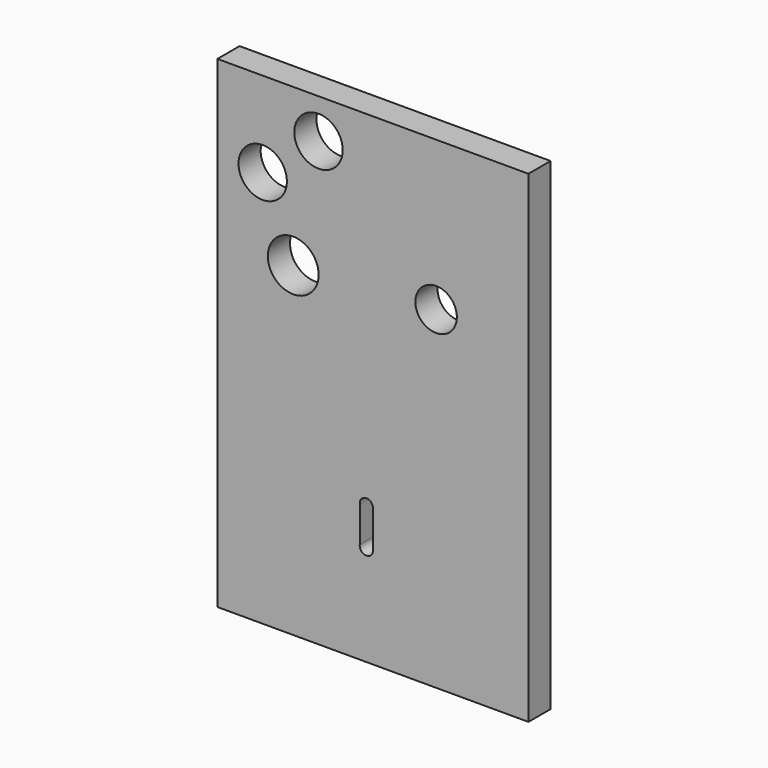
from build123d import *

# Parameters (mm, degrees)
F0_W     = 71.2898522615
F0_H     = 110.58742553
F0_R     = 5.8240303567
F0_R_2   = 5.544554678
F0_R_3   = 5.5476903885
F0_R_4   = 4.7529819841
F1_DEPTH = 3.175
F2_DEPTH = 3.175


with BuildPart() as f1:
    # F0 (on Front) → F1 (new body, symmetric)
    with BuildSketch(Plane.XZ):
        Rectangle(F0_W, F0_H)
        with BuildLine():
            ThreePointArc((-2.9955138452, -23.9786170423), (-1.4977569226, -22.2334064032), (0, -23.9786170423))
            Line((0, -23.9786170423), (0, -32.0213139057))
            ThreePointArc((0, -32.0213139057), (-1.4977569226, -33.8227026245), (-2.9955138452, -32.0213139057))
            Line((-2.9955138452, -32.0213139057), (-2.9955138452, -23.9786170423))
        make_face(mode=Mode.SUBTRACT)
        with Locations((-18.2633008808, 19.2709285766)):
            Circle(F0_R, mode=Mode.SUBTRACT)
        with Locations((-25.2595208585, 35.7538498938)):
            Circle(F0_R_2, mode=Mode.SUBTRACT)
        with Locations((-12.4694257975, 46.225041151)):
            Circle(F0_R_3, mode=Mode.SUBTRACT)
        with Locations((14.4846877083, 21.0342817008)):
            Circle(F0_R_4, mode=Mode.SUBTRACT)
    extrude(amount=F1_DEPTH, both=True)

    # F0 (on Front) → F2 (join, symmetric)
    with BuildSketch(Plane.XZ):
        Rectangle(F0_W, F0_H)
        with BuildLine():
            ThreePointArc((-2.9955138452, -23.9786170423), (-1.4977569226, -22.2334064032), (0, -23.9786170423))
            Line((0, -23.9786170423), (0, -32.0213139057))
            ThreePointArc((0, -32.0213139057), (-1.4977569226, -33.8227026245), (-2.9955138452, -32.0213139057))
            Line((-2.9955138452, -32.0213139057), (-2.9955138452, -23.9786170423))
        make_face(mode=Mode.SUBTRACT)
        with Locations((-18.2633008808, 19.2709285766)):
            Circle(F0_R, mode=Mode.SUBTRACT)
        with Locations((-25.2595208585, 35.7538498938)):
            Circle(F0_R_2, mode=Mode.SUBTRACT)
        with Locations((-12.4694257975, 46.225041151)):
            Circle(F0_R_3, mode=Mode.SUBTRACT)
        with Locations((14.4846877083, 21.0342817008)):
            Circle(F0_R_4, mode=Mode.SUBTRACT)
    extrude(amount=F2_DEPTH, both=True)


solid = f1.part
